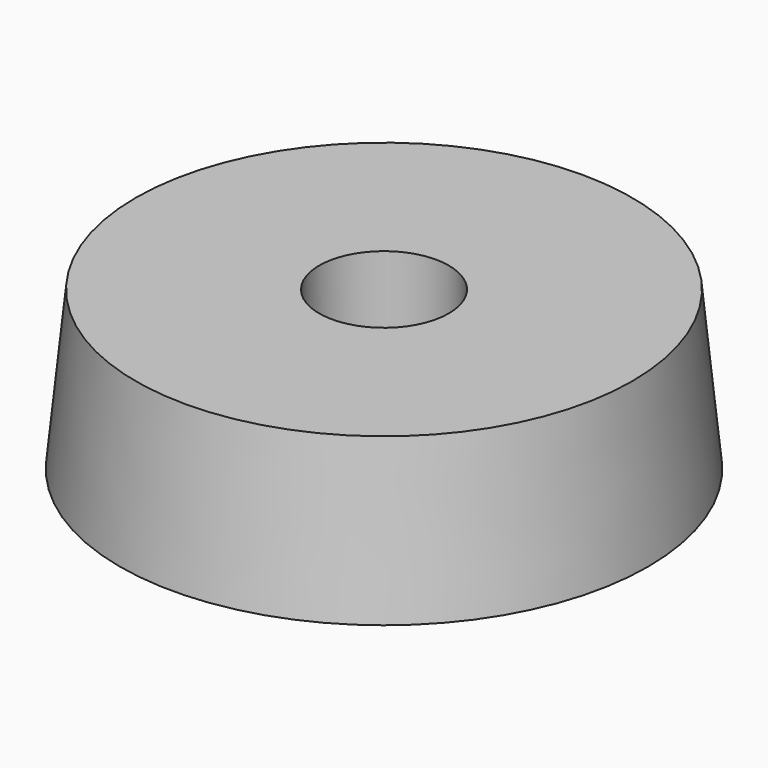
from build123d import *


with BuildPart() as part:
    # Sketch → Revolution (revolve)
    with BuildSketch(Plane.XZ):
        Polygon((4.1, 0), (4.1, 10), (15.7, 10), (16.7, 0), align=None)
    revolve(axis=Axis((0, 0, 0), (0, 0, 1)))


solid = part.part
